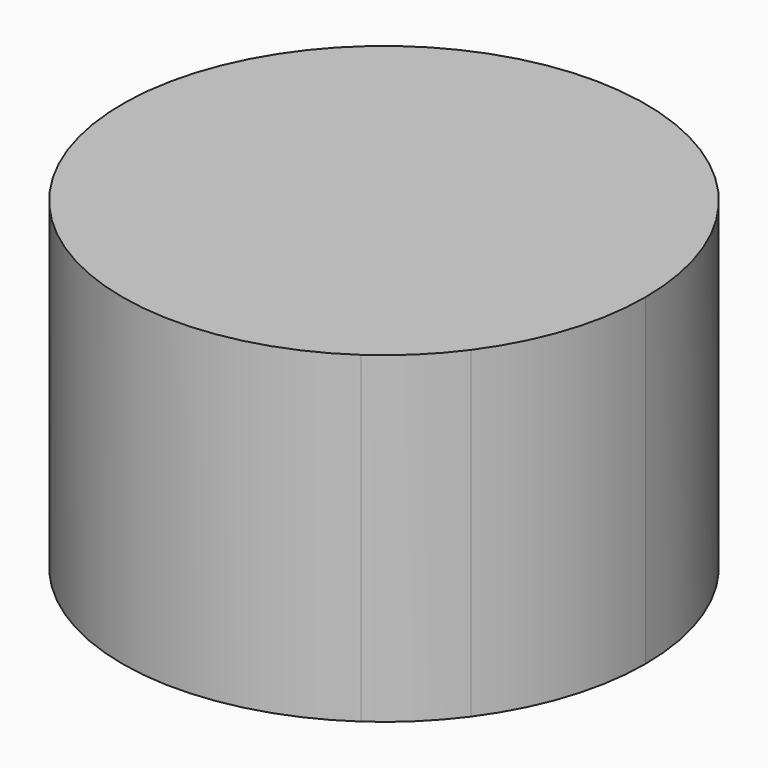
from build123d import *

# Parameters (mm, degrees)
F0_R     = 3
F1_DEPTH = 25


with BuildPart() as f1:
    # F0 (on Top) → F1 (new body)
    with BuildSketch(Plane.XY):
        with BuildLine():
            ThreePointArc((16.3198584303, -11.9885245471), (19.2423963322, -6.3081442115), (20.25, 0))
            ThreePointArc((20.25, 0), (-17.9418867962, 9.3888869518), (11.5437088204, -16.6374663537))
            ThreePointArc((11.5437088204, -16.6374663537), (8.6838704474, -8.921484969), (16.3198584303, -11.988524547))
        make_face()
        with BuildLine():
            ThreePointArc((16.3198584303, -11.988524547), (8.6838704474, -8.921484969), (11.5437088204, -16.6374663537))
            ThreePointArc((11.5437088204, -16.6374663537), (14.1243675952, -14.510849046), (16.3198584303, -11.9885245471))
        make_face()
        with Locations((11.8226188019, -12.1461180904)):
            Circle(F0_R, mode=Mode.SUBTRACT)
        with Locations((11.8226188019, -12.1461180904)):
            Circle(F0_R)
    extrude(amount=F1_DEPTH)


solid = f1.part
